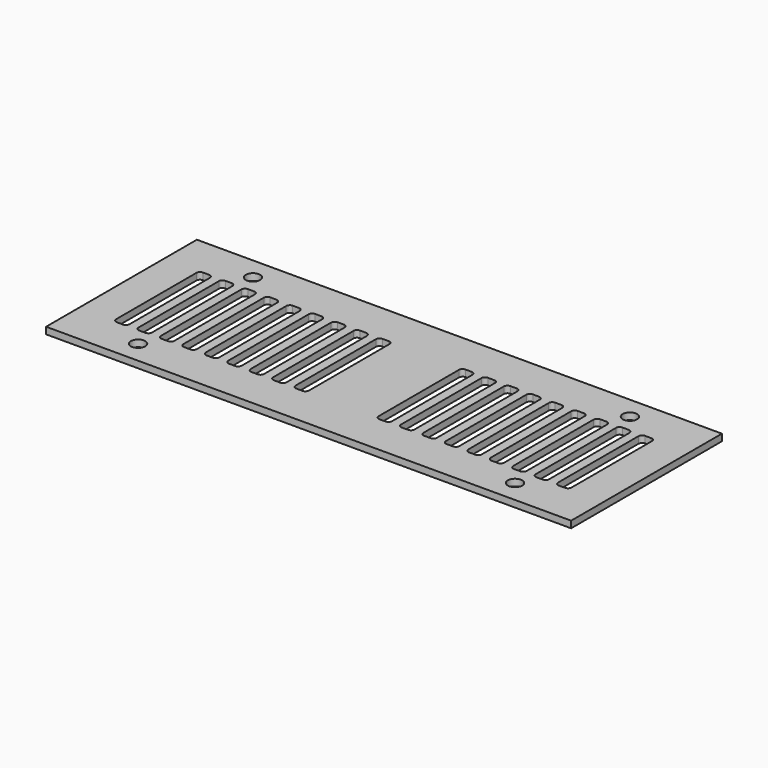
from build123d import *

# Parameters (mm, degrees)
F0_W     = 117
F0_H     = 42
F0_R     = 1.6
F1_DEPTH = 1.5


with BuildPart() as f1:
    # F0 (on Top) → F1 (new body)
    with BuildSketch(Plane.XY):
        Rectangle(F0_W, F0_H)
        with Locations((-42, -16)):
            Circle(F0_R, mode=Mode.SUBTRACT)
        with Locations((42, -16)):
            Circle(F0_R, mode=Mode.SUBTRACT)
        with BuildLine():
            ThreePointArc((-50.75, 11.2), (-50.515685, 11.765685), (-49.95, 12))
            Line((-49.95, 12), (-48.55, 12))
            ThreePointArc((-48.55, 12), (-47.984315, 11.765685), (-47.75, 11.2))
            Line((-47.75, 11.2), (-47.75, -11.2))
            ThreePointArc((-47.75, -11.2), (-47.984315, -11.765685), (-48.55, -12))
            Line((-48.55, -12), (-49.95, -12))
            ThreePointArc((-49.95, -12), (-50.515685, -11.765685), (-50.75, -11.2))
            Line((-50.75, -11.2), (-50.75, 11.2))
        make_face(mode=Mode.SUBTRACT)
        with BuildLine():
            ThreePointArc((-43.55, 12), (-42.984315, 11.765685), (-42.75, 11.2))
            Line((-42.75, 11.2), (-42.75, -11.2))
            ThreePointArc((-42.75, -11.2), (-42.984315, -11.765685), (-43.55, -12))
            Line((-43.55, -12), (-44.95, -12))
            ThreePointArc((-44.95, -12), (-45.515685, -11.765685), (-45.75, -11.2))
            Line((-45.75, -11.2), (-45.75, 11.2))
            ThreePointArc((-45.75, 11.2), (-45.515685, 11.765685), (-44.95, 12))
            Line((-44.95, 12), (-43.55, 12))
        make_face(mode=Mode.SUBTRACT)
        with BuildLine():
            ThreePointArc((-38.55, 12), (-37.984315, 11.765685), (-37.75, 11.2))
            Line((-37.75, 11.2), (-37.75, -11.2))
            ThreePointArc((-37.75, -11.2), (-37.984315, -11.765685), (-38.55, -12))
            Line((-38.55, -12), (-39.95, -12))
            ThreePointArc((-39.95, -12), (-40.515685, -11.765685), (-40.75, -11.2))
            Line((-40.75, -11.2), (-40.75, 11.2))
            ThreePointArc((-40.75, 11.2), (-40.515685, 11.765685), (-39.95, 12))
            Line((-39.95, 12), (-38.55, 12))
        make_face(mode=Mode.SUBTRACT)
        with BuildLine():
            ThreePointArc((-33.55, 12), (-32.984315, 11.765685), (-32.75, 11.2))
            Line((-32.75, 11.2), (-32.75, -11.2))
            ThreePointArc((-32.75, -11.2), (-32.984315, -11.765685), (-33.55, -12))
            Line((-33.55, -12), (-34.95, -12))
            ThreePointArc((-34.95, -12), (-35.515685, -11.765685), (-35.75, -11.2))
            Line((-35.75, -11.2), (-35.75, 11.2))
            ThreePointArc((-35.75, 11.2), (-35.515685, 11.765685), (-34.95, 12))
            Line((-34.95, 12), (-33.55, 12))
        make_face(mode=Mode.SUBTRACT)
        with BuildLine():
            ThreePointArc((-28.55, 12), (-27.984315, 11.765685), (-27.75, 11.2))
            Line((-27.75, 11.2), (-27.75, -11.2))
            ThreePointArc((-27.75, -11.2), (-27.984315, -11.765685), (-28.55, -12))
            Line((-28.55, -12), (-29.95, -12))
            ThreePointArc((-29.95, -12), (-30.515685, -11.765685), (-30.75, -11.2))
            Line((-30.75, -11.2), (-30.75, 11.2))
            ThreePointArc((-30.75, 11.2), (-30.515685, 11.765685), (-29.95, 12))
            Line((-29.95, 12), (-28.55, 12))
        make_face(mode=Mode.SUBTRACT)
        with BuildLine():
            ThreePointArc((-23.55, 12), (-22.984315, 11.765685), (-22.75, 11.2))
            Line((-22.75, 11.2), (-22.75, -11.2))
            ThreePointArc((-22.75, -11.2), (-22.984315, -11.765685), (-23.55, -12))
            Line((-23.55, -12), (-24.95, -12))
            ThreePointArc((-24.95, -12), (-25.515685, -11.765685), (-25.75, -11.2))
            Line((-25.75, -11.2), (-25.75, 11.2))
            ThreePointArc((-25.75, 11.2), (-25.515685, 11.765685), (-24.95, 12))
            Line((-24.95, 12), (-23.55, 12))
        make_face(mode=Mode.SUBTRACT)
        with BuildLine():
            ThreePointArc((-18.55, 12), (-17.984315, 11.765685), (-17.75, 11.2))
            Line((-17.75, 11.2), (-17.75, -11.2))
            ThreePointArc((-17.75, -11.2), (-17.984315, -11.765685), (-18.55, -12))
            Line((-18.55, -12), (-19.95, -12))
            ThreePointArc((-19.95, -12), (-20.515685, -11.765685), (-20.75, -11.2))
            Line((-20.75, -11.2), (-20.75, 11.2))
            ThreePointArc((-20.75, 11.2), (-20.515685, 11.765685), (-19.95, 12))
            Line((-19.95, 12), (-18.55, 12))
        make_face(mode=Mode.SUBTRACT)
        with BuildLine():
            ThreePointArc((-13.55, 12), (-12.984315, 11.765685), (-12.75, 11.2))
            Line((-12.75, 11.2), (-12.75, -11.2))
            ThreePointArc((-12.75, -11.2), (-12.984315, -11.765685), (-13.55, -12))
            Line((-13.55, -12), (-14.95, -12))
            ThreePointArc((-14.95, -12), (-15.515685, -11.765685), (-15.75, -11.2))
            Line((-15.75, -11.2), (-15.75, 11.2))
            ThreePointArc((-15.75, 11.2), (-15.515685, 11.765685), (-14.95, 12))
            Line((-14.95, 12), (-13.55, 12))
        make_face(mode=Mode.SUBTRACT)
        with BuildLine():
            ThreePointArc((-8.55, 12), (-7.984315, 11.765685), (-7.75, 11.2))
            Line((-7.75, 11.2), (-7.75, -11.2))
            ThreePointArc((-7.75, -11.2), (-7.984315, -11.765685), (-8.55, -12))
            Line((-8.55, -12), (-9.95, -12))
            ThreePointArc((-9.95, -12), (-10.515685, -11.765685), (-10.75, -11.2))
            Line((-10.75, -11.2), (-10.75, 11.2))
            ThreePointArc((-10.75, 11.2), (-10.515685, 11.765685), (-9.95, 12))
            Line((-9.95, 12), (-8.55, 12))
        make_face(mode=Mode.SUBTRACT)
        with Locations((-42, 16)):
            Circle(F0_R, mode=Mode.SUBTRACT)
        with BuildLine():
            ThreePointArc((7.75, 11.2), (7.984315, 11.765685), (8.55, 12))
            Line((8.55, 12), (9.95, 12))
            ThreePointArc((9.95, 12), (10.515685, 11.765685), (10.75, 11.2))
            Line((10.75, 11.2), (10.75, -11.2))
            ThreePointArc((10.75, -11.2), (10.515685, -11.765685), (9.95, -12))
            Line((9.95, -12), (8.55, -12))
            ThreePointArc((8.55, -12), (7.984315, -11.765685), (7.75, -11.2))
            Line((7.75, -11.2), (7.75, 11.2))
        make_face(mode=Mode.SUBTRACT)
        with BuildLine():
            Line((12.75, -11.2), (12.75, 11.2))
            ThreePointArc((12.75, 11.2), (12.984315, 11.765685), (13.55, 12))
            Line((13.55, 12), (14.95, 12))
            ThreePointArc((14.95, 12), (15.515685, 11.765685), (15.75, 11.2))
            Line((15.75, 11.2), (15.75, -11.2))
            ThreePointArc((15.75, -11.2), (15.515685, -11.765685), (14.95, -12))
            Line((14.95, -12), (13.55, -12))
            ThreePointArc((13.55, -12), (12.984315, -11.765685), (12.75, -11.2))
        make_face(mode=Mode.SUBTRACT)
        with BuildLine():
            Line((17.75, -11.2), (17.75, 11.2))
            ThreePointArc((17.75, 11.2), (17.984315, 11.765685), (18.55, 12))
            Line((18.55, 12), (19.95, 12))
            ThreePointArc((19.95, 12), (20.515685, 11.765685), (20.75, 11.2))
            Line((20.75, 11.2), (20.75, -11.2))
            ThreePointArc((20.75, -11.2), (20.515685, -11.765685), (19.95, -12))
            Line((19.95, -12), (18.55, -12))
            ThreePointArc((18.55, -12), (17.984315, -11.765685), (17.75, -11.2))
        make_face(mode=Mode.SUBTRACT)
        with BuildLine():
            Line((22.75, -11.2), (22.75, 11.2))
            ThreePointArc((22.75, 11.2), (22.984315, 11.765685), (23.55, 12))
            Line((23.55, 12), (24.95, 12))
            ThreePointArc((24.95, 12), (25.515685, 11.765685), (25.75, 11.2))
            Line((25.75, 11.2), (25.75, -11.2))
            ThreePointArc((25.75, -11.2), (25.515685, -11.765685), (24.95, -12))
            Line((24.95, -12), (23.55, -12))
            ThreePointArc((23.55, -12), (22.984315, -11.765685), (22.75, -11.2))
        make_face(mode=Mode.SUBTRACT)
        with BuildLine():
            Line((27.75, -11.2), (27.75, 11.2))
            ThreePointArc((27.75, 11.2), (27.984315, 11.765685), (28.55, 12))
            Line((28.55, 12), (29.95, 12))
            ThreePointArc((29.95, 12), (30.515685, 11.765685), (30.75, 11.2))
            Line((30.75, 11.2), (30.75, -11.2))
            ThreePointArc((30.75, -11.2), (30.515685, -11.765685), (29.95, -12))
            Line((29.95, -12), (28.55, -12))
            ThreePointArc((28.55, -12), (27.984315, -11.765685), (27.75, -11.2))
        make_face(mode=Mode.SUBTRACT)
        with BuildLine():
            Line((32.75, -11.2), (32.75, 11.2))
            ThreePointArc((32.75, 11.2), (32.984315, 11.765685), (33.55, 12))
            Line((33.55, 12), (34.95, 12))
            ThreePointArc((34.95, 12), (35.515685, 11.765685), (35.75, 11.2))
            Line((35.75, 11.2), (35.75, -11.2))
            ThreePointArc((35.75, -11.2), (35.515685, -11.765685), (34.95, -12))
            Line((34.95, -12), (33.55, -12))
            ThreePointArc((33.55, -12), (32.984315, -11.765685), (32.75, -11.2))
        make_face(mode=Mode.SUBTRACT)
        with BuildLine():
            Line((37.75, -11.2), (37.75, 11.2))
            ThreePointArc((37.75, 11.2), (37.984315, 11.765685), (38.55, 12))
            Line((38.55, 12), (39.95, 12))
            ThreePointArc((39.95, 12), (40.515685, 11.765685), (40.75, 11.2))
            Line((40.75, 11.2), (40.75, -11.2))
            ThreePointArc((40.75, -11.2), (40.515685, -11.765685), (39.95, -12))
            Line((39.95, -12), (38.55, -12))
            ThreePointArc((38.55, -12), (37.984315, -11.765685), (37.75, -11.2))
        make_face(mode=Mode.SUBTRACT)
        with BuildLine():
            Line((42.75, -11.2), (42.75, 11.2))
            ThreePointArc((42.75, 11.2), (42.984315, 11.765685), (43.55, 12))
            Line((43.55, 12), (44.95, 12))
            ThreePointArc((44.95, 12), (45.515685, 11.765685), (45.75, 11.2))
            Line((45.75, 11.2), (45.75, -11.2))
            ThreePointArc((45.75, -11.2), (45.515685, -11.765685), (44.95, -12))
            Line((44.95, -12), (43.55, -12))
            ThreePointArc((43.55, -12), (42.984315, -11.765685), (42.75, -11.2))
        make_face(mode=Mode.SUBTRACT)
        with BuildLine():
            Line((47.75, -11.2), (47.75, 11.2))
            ThreePointArc((47.75, 11.2), (47.984315, 11.765685), (48.55, 12))
            Line((48.55, 12), (49.95, 12))
            ThreePointArc((49.95, 12), (50.515685, 11.765685), (50.75, 11.2))
            Line((50.75, 11.2), (50.75, -11.2))
            ThreePointArc((50.75, -11.2), (50.515685, -11.765685), (49.95, -12))
            Line((49.95, -12), (48.55, -12))
            ThreePointArc((48.55, -12), (47.984315, -11.765685), (47.75, -11.2))
        make_face(mode=Mode.SUBTRACT)
        with Locations((42, 16)):
            Circle(F0_R, mode=Mode.SUBTRACT)
    extrude(amount=-F1_DEPTH)


solid = f1.part
